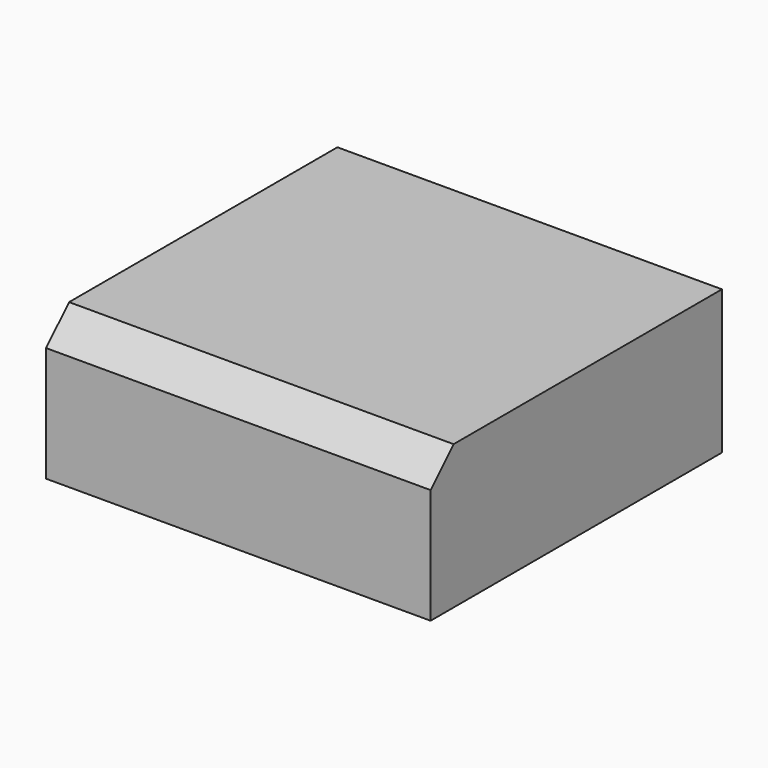
from build123d import *

# Parameters (mm, degrees)
F1_DEPTH = 25.4
F2_SIZE  = 5.08


with BuildPart() as f1:
    # F0 (on Top) → F1 (new body)
    with BuildSketch(Plane.XY):
        Polygon((42.737432, 32.615412), (-25.192585, 32.615412), (-25.192585, -31.715661), (8.772423, -31.715661), (42.737432, -31.715661), align=None)
    extrude(amount=F1_DEPTH)

    # F2
    f2_edges = [f1.edges().sort_by_distance(p)[0] for p in [
        (8.772423, -31.715661, 25.4),
    ]]
    chamfer(f2_edges, length=F2_SIZE)


solid = f1.part
